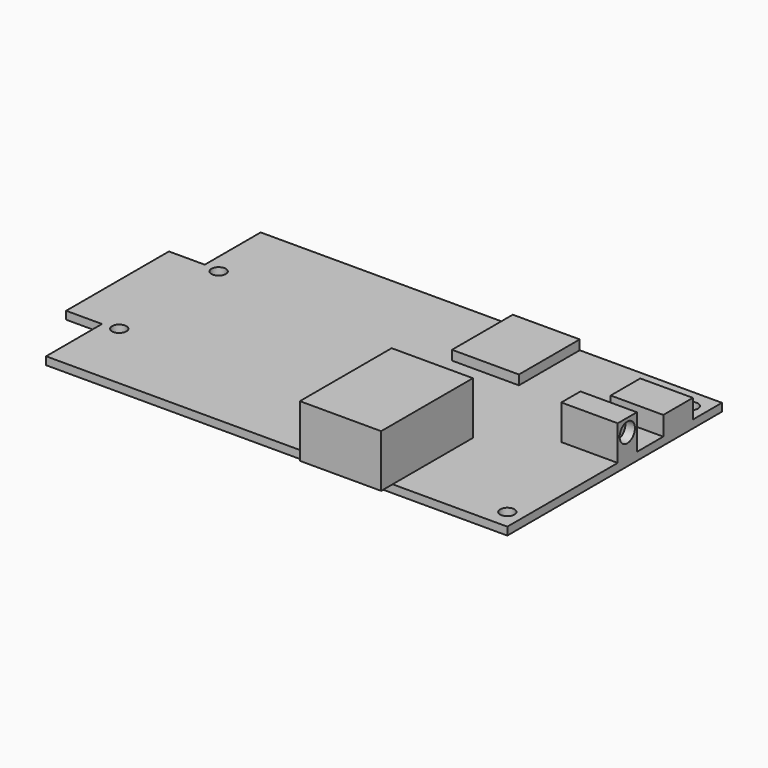
from build123d import *

# Parameters (mm, degrees)
F0_R     = 1.5
F0_W     = 14.2
F0_H     = 15.9
F0_W_2   = 11.8
F0_H_2   = 5
F1_DEPTH = 1.65
F2_W     = 14
F2_H     = 15.9
F3_DEPTH = 2
F2_W_2   = 11
F2_H_2   = 7.74
F4_DEPTH = 4
F2_W_3   = 17
F2_H_3   = 21
F2_H_4   = 3
F5_DEPTH = 11
F6_W     = 11.8
F6_H     = 5
F7_DEPTH = 7.3
F8_R     = 2
F9_DEPTH = 2


with BuildPart() as f1:
    # F0 (on Top) → F1 (new body)
    with BuildSketch(Plane.XY):
        Polygon((4.39, 28.06), (-48.25, 28.06), (-48.25, 13.44), (-55.75, 13.44), (-55.75, 0), (-55.75, -13.44), (-48.25, -13.44), (-48.25, -28.06), (48.25, -28.06), (48.25, 0), (48.25, 0.81), (36.45, 0.81), (36.45, 5.81), (48.25, 5.81), (48.25, 28.06), (18.59, 28.06), (18.59, 12.16), (4.39, 12.16), align=None)
        with Locations((-45, -13)):
            Circle(F0_R, mode=Mode.SUBTRACT)
        with Locations((45, -24)):
            Circle(F0_R, mode=Mode.SUBTRACT)
        with Locations((-45, 13)):
            Circle(F0_R, mode=Mode.SUBTRACT)
        with Locations((45, 24)):
            Circle(F0_R, mode=Mode.SUBTRACT)
        with Locations((11.49, 20.11)):
            Rectangle(F0_W, F0_H)
        with Locations((42.35, 3.31)):
            Rectangle(F0_W_2, F0_H_2)
    extrude(amount=F1_DEPTH)

    # F2 (on face) → F3 (join)
    with BuildSketch(Plane.XY.offset(1.65)):
        with Locations((11.5, 20.11)):
            Rectangle(F2_W, F2_H)
    extrude(amount=F3_DEPTH)

    # F2 (on face) → F4 (join)
    with BuildSketch(Plane.XY.offset(1.65)):
        with Locations((42.75, 16.59)):
            Rectangle(F2_W_2, F2_H_2)
    extrude(amount=F4_DEPTH)

    # F2 (on face) → F5 (join)
    with BuildSketch(Plane.XY.offset(1.65)):
        with Locations((15.75, -17.56)):
            Rectangle(F2_W_3, F2_H_3)
        with Locations((15.75, -29.56)):
            Rectangle(F2_W_3, F2_H_4)
    extrude(amount=F5_DEPTH)

    # F6 (on face) → F7 (join)
    with BuildSketch(Plane.XY.offset(1.65)):
        with Locations((42.35, 3.31)):
            Rectangle(F6_W, F6_H)
    extrude(amount=F7_DEPTH)

    # F8 (on face) → F9 (cut)
    with BuildSketch(Plane.YZ.offset(48.25)):
        with Locations((3.31, 6.25)):
            Circle(F8_R)
    extrude(amount=-F9_DEPTH, mode=Mode.SUBTRACT)


solid = f1.part
